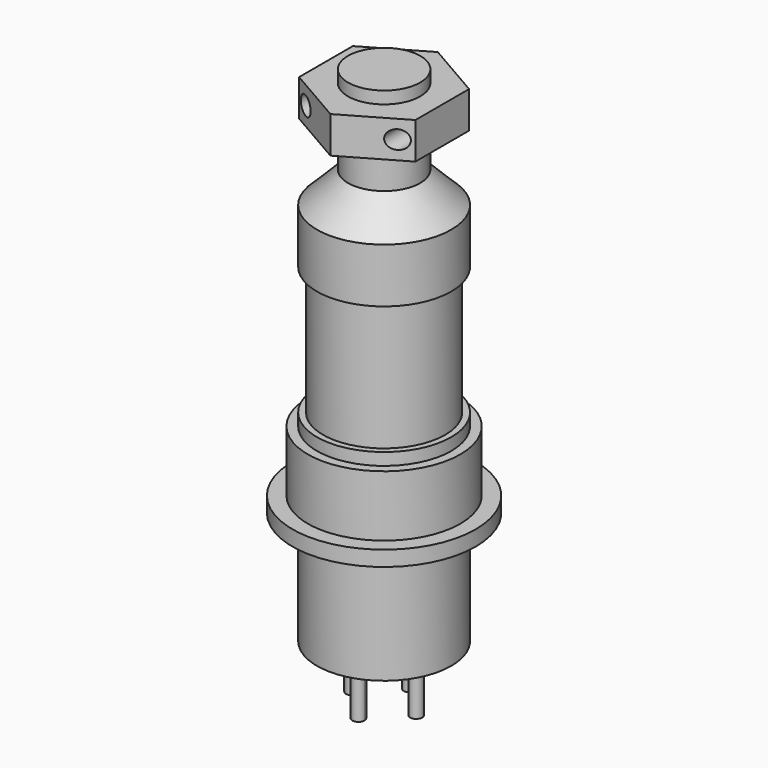
from build123d import *

# Parameters (mm, degrees)
F0_R          = 5.5
F1_DEPTH      = 9.25
F2_R          = 0.5
F3_DEPTH      = 4.5
F3_DEPTH_BACK = 12.7
F4_R          = 7.5
F5_DEPTH      = 1.25
F6_R          = 6.25
F7_DEPTH      = 5
F9_DEPTH      = 9
F10_DEPTH     = 13.97
F11_DEPTH     = 9
F12_R         = 5.5
F13_DEPTH     = 1
F14_R         = 5
F15_DEPTH     = 10.5
F16_R         = 5.5
F17_DEPTH     = 7
F18_SIZE      = 2.54
F19_DEPTH     = 7.25
F22_DEPTH     = 3
F24_DEPTH     = 12.7


with BuildPart() as f1:
    # F0 (on Top) → F1 (new body)
    with BuildSketch(Plane.XY):
        Circle(F0_R)
    extrude(amount=F1_DEPTH)

    # F2 (on face) → F3 (join, two sides)
    with BuildSketch(Plane(origin=(0, 0, 0), x_dir=(1, 0, 0), z_dir=(0, 0, -1))) as f3_sk:
        with BuildLine():
            ThreePointArc((0, 2.125), (0.3535533906, 2.2714466094), (0.5, 2.625))
            ThreePointArc((0.5, 2.625), (-0.3535533906, 2.9785533906), (0, 2.125))
        make_face()
        with Locations((-2.625, 0)):
            Circle(F2_R)
        with Locations((0, -2.625)):
            Circle(F2_R)
        with Locations((2.625, 0)):
            Circle(F2_R)
    extrude(amount=F3_DEPTH)
    extrude(f3_sk.sketch, amount=-F3_DEPTH_BACK)

    # F4 (on face) → F5 (join)
    with BuildSketch(Plane.XY.offset(9.25)):
        Circle(F4_R)
    extrude(amount=F5_DEPTH)

    # F6 (on face) → F7 (join)
    with BuildSketch(Plane.XY.offset(10.5)):
        Circle(F6_R)
    extrude(amount=F7_DEPTH)

    # F8 (on face) → F9 (cut)
    with BuildSketch(Plane.XY.offset(15.5)):
        with BuildLine():
            ThreePointArc((3.7012574537, 2.5594322147), (2.8861104787, 2.8720539695), (2.5774722086, 3.6887175297))
            ThreePointArc((2.5774722086, 3.6887175297), (-3.1897386842, -3.1742033846), (3.7012574537, 2.5594322147))
        make_face()
    extrude(amount=-F9_DEPTH, mode=Mode.SUBTRACT)

    # F2 (on face) → F10 (join)
    with BuildSketch(Plane(origin=(0, 0, 0), x_dir=(1, 0, 0), z_dir=(0, 0, -1))):
        with BuildLine():
            ThreePointArc((0, 2.125), (0.3535533906, 2.2714466094), (0.5, 2.625))
            ThreePointArc((0.5, 2.625), (-0.3535533906, 2.9785533906), (0, 2.125))
        make_face()
        with Locations((-2.625, 0)):
            Circle(F2_R)
        with Locations((0, -2.625)):
            Circle(F2_R)
        with Locations((2.625, 0)):
            Circle(F2_R)
    extrude(amount=-F10_DEPTH)


with BuildPart() as f11:
    # F11 (new): a face of the model
    f11_faces = [f1.part.faces().sort_by_distance(p)[0] for p in [
        (-0.0239348951, -0.0238183226, 6.5),
    ]]
    extrude(f11_faces, amount=F11_DEPTH)

    # F12 (on face) → F13 (join)
    with BuildSketch(Plane.XY.offset(15.5)):
        Circle(F12_R)
    extrude(amount=F13_DEPTH)

    # F14 (on face) → F15 (join)
    with BuildSketch(Plane.XY.offset(16.5)):
        Circle(F14_R)
    extrude(amount=F15_DEPTH)

    # F16 (on face) → F17 (join)
    with BuildSketch(Plane.XY.offset(27)):
        Circle(F16_R)
    extrude(amount=F17_DEPTH)

    # F18
    f18_edges = [f11.edges().sort_by_distance(p)[0] for p in [
        (-5.5, 0, 34),
    ]]
    chamfer(f18_edges, length=F18_SIZE)

    # F19 (add): a face of the model
    f19_faces = [f11.faces().sort_by_distance(p)[0] for p in [
        (0, 0, 34),
    ]]
    extrude(f19_faces, amount=F19_DEPTH)

    # F21 (on offset) → F22 (join)
    with BuildSketch(Plane.XY.offset(40.25)):
        Polygon((0, -5.5), (4.7631397208, -2.75), (4.7631397208, 2.75), (0, 5.5), (-4.7631397208, 2.75), (-4.7631397208, -2.75), align=None)
    extrude(amount=-F22_DEPTH)

    # F23 (on Front) → F24 (cut, symmetric)
    with BuildSketch(Plane.XZ):
        with BuildLine():
            ThreePointArc((-4.5131397208, 38.75), (-3.7631397208, 38), (-3.0131397208, 38.75))
            Line((-3.0131397208, 38.75), (-3.7631397208, 38.75))
            Line((-3.7631397208, 38.75), (-4.5131397208, 38.75))
        make_face()
        with BuildLine():
            Line((-3.7631397208, 38.75), (-3.0131397208, 38.75))
            ThreePointArc((-3.0131397208, 38.75), (-3.7631397208, 39.5), (-4.5131397208, 38.75))
            Line((-4.5131397208, 38.75), (-3.7631397208, 38.75))
        make_face()
        with BuildLine():
            ThreePointArc((4.5131397208, 38.75), (3.7631397208, 39.5), (3.0131397208, 38.75))
            Line((3.0131397208, 38.75), (3.7631397208, 38.75))
            Line((3.7631397208, 38.75), (4.5131397208, 38.75))
        make_face()
        with BuildLine():
            Line((3.7631397208, 38.75), (3.0131397208, 38.75))
            ThreePointArc((3.0131397208, 38.75), (3.7631397208, 38), (4.5131397208, 38.75))
            Line((4.5131397208, 38.75), (3.7631397208, 38.75))
        make_face()
    extrude(amount=F24_DEPTH, both=True, mode=Mode.SUBTRACT)


solid = Compound([f1.part, f11.part])
